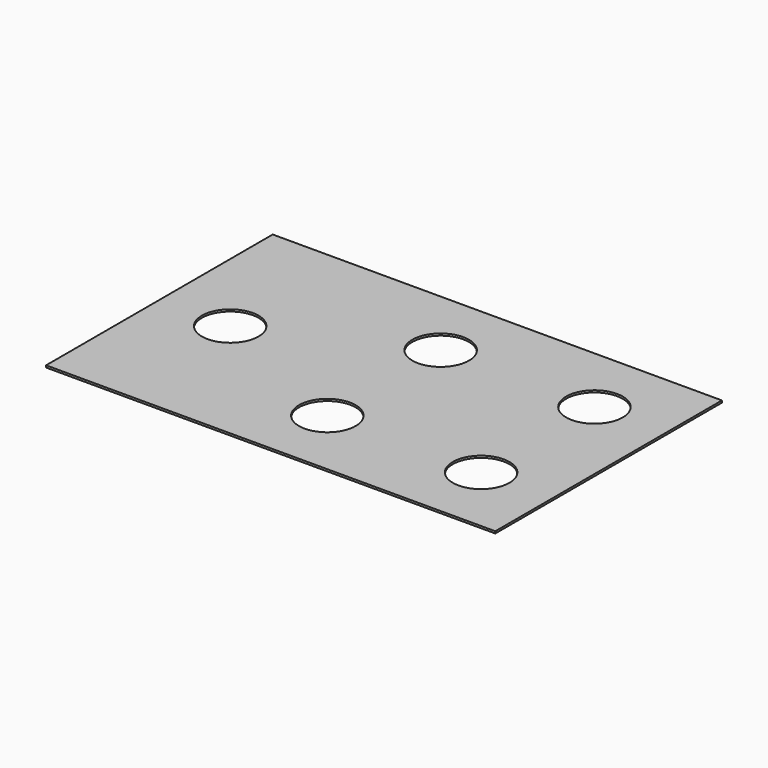
from build123d import *

# Parameters (mm, degrees)
F0_W     = 5638.8
F0_H     = 3556
F0_R     = 355.6
F1_DEPTH = 25.4


with BuildPart() as f1:
    # F0 (on Top) → F1 (new body)
    with BuildSketch(Plane.XY):
        with Locations((-1930.4, -889)):
            Rectangle(F0_W, F0_H)
        with Locations((-1930.4, -1778)):
            Circle(F0_R, mode=Mode.SUBTRACT)
        with Locations((0, -1778)):
            Circle(F0_R, mode=Mode.SUBTRACT)
        with Locations((-3860.8, -889)):
            Circle(F0_R, mode=Mode.SUBTRACT)
        with Locations((-1930.4, 0)):
            Circle(F0_R, mode=Mode.SUBTRACT)
        Circle(F0_R, mode=Mode.SUBTRACT)
    extrude(amount=F1_DEPTH)


solid = f1.part
